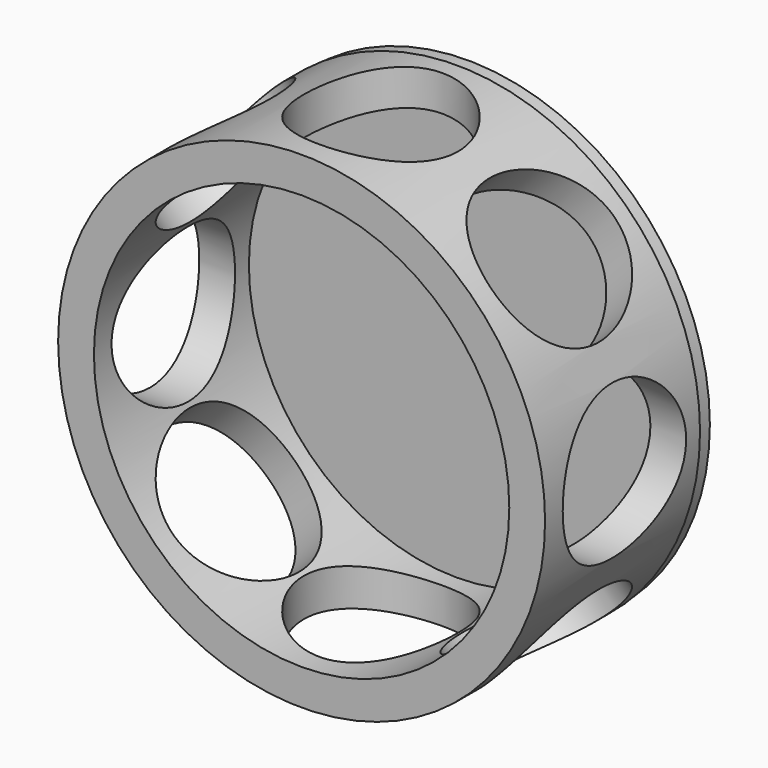
from build123d import *

# Parameters (mm, degrees)
F0_R     = 73.0172554238
F0_R_2   = 62.2820496666
F1_DEPTH = 58.0870527774
F2_R     = 72.6141132076
F3_DEPTH = 4.1914302856
F4_R     = 23.1335914339
F5_DEPTH = 203.1304165721
F6_COUNT = 8


with BuildPart() as f1:
    # F0 (on Front) → F1 (new body)
    with BuildSketch(Plane.XZ):
        Circle(F0_R)
        Circle(F0_R_2, mode=Mode.SUBTRACT)
    extrude(amount=F1_DEPTH)

    # F2 (on Front) → F3 (join)
    with BuildSketch(Plane.XZ):
        Circle(F2_R)
    extrude(amount=-F3_DEPTH)

    # F4 (on Right) → F5 (cut)
    with BuildSketch(Plane.YZ):
        with Locations((-28.3357575536, 0)):
            Circle(F4_R)
    f5 = extrude(amount=-F5_DEPTH, mode=Mode.SUBTRACT)

    # F6: F5 ×8 about axis
    f6_axis = Axis((0, -58.0870527774, 0), (0, -1, 0))
    for i in range(1, F6_COUNT):
        add(f5.rotate(f6_axis, i * 360 / F6_COUNT), mode=Mode.SUBTRACT)


solid = f1.part
